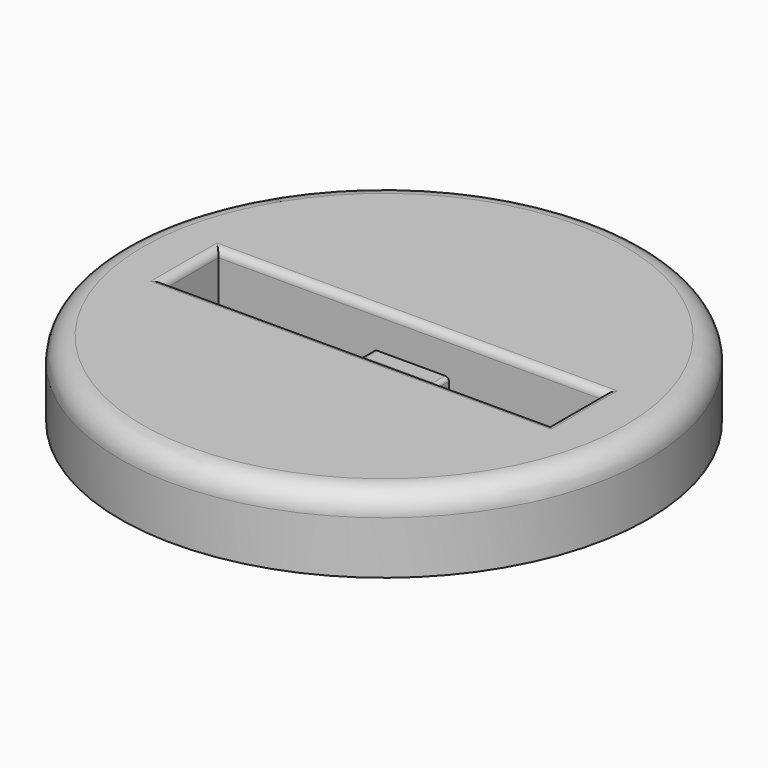
from build123d import *

# Parameters (mm, degrees)
F0_R     = 17.5
F1_DEPTH = 5
F0_W     = 5
F0_H     = 1.25
F2_DEPTH = 2.5
F3_R     = 0.25
F4_R     = 0.5
F5_R     = 1.5


with BuildPart() as f1:
    # F0 (on Top) → F1 (new body)
    with BuildSketch(Plane.XY):
        Circle(F0_R)
        Polygon((-12.776, -2.25), (-12.776, 2.25), (-2.5, 2.25), (2.5, 2.25), (12.776, 2.25), (12.776, -2.25), (2.5, -2.25), (-2.5, -2.25), align=None, mode=Mode.SUBTRACT)
    extrude(amount=F1_DEPTH)

    # F0 (on Top) → F2 (join)
    with BuildSketch(Plane.XY):
        with Locations((0, 1.625)):
            Rectangle(F0_W, F0_H)
        with Locations((0, -1.625)):
            Rectangle(F0_W, F0_H)
    extrude(amount=F2_DEPTH)

    # F3
    f3_edges = [f1.edges().sort_by_distance(p)[0] for p in [
        (-2.5, -1, 1.25),
        (-2.5, -1.625, 2.5),
        (0, -1, 2.5),
        (2.5, -1.625, 2.5),
        (0, 1, 2.5),
        (2.5, 1.625, 2.5),
        (-2.5, 1.625, 2.5),
        (-2.5, 1, 1.25),
        (2.5, -1, 1.25),
        (2.5, 1, 1.25),
    ]]
    fillet(f3_edges, radius=F3_R)

    # F4
    f4_edges = [f1.edges().sort_by_distance(p)[0] for p in [
        (0, 2.25, 5),
        (12.776, 0, 5),
        (0, -2.25, 5),
        (-12.776, 0, 5),
    ]]
    fillet(f4_edges, radius=F4_R)

    # F5
    f5_edges = [f1.edges().sort_by_distance(p)[0] for p in [
        (-17.5, 0, 5),
    ]]
    fillet(f5_edges, radius=F5_R)


solid = f1.part
